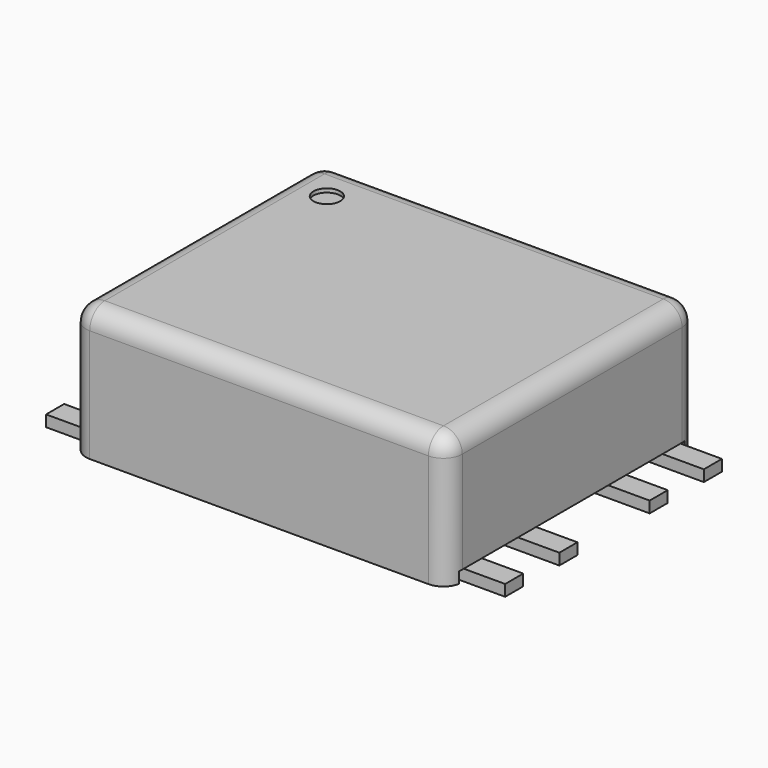
from build123d import *

# Parameters (mm, degrees)
SKETCH_W        = 10
SKETCH_H        = 8.3
PAD_DEPTH       = 3.5
FILLET_R        = 0.5
SKETCH002_W     = 12.582096
SKETCH002_H     = 7.5
POCKET_DEPTH    = 0.3
SKETCH003_R     = 0.356211
POCKET001_DEPTH = 0.1
SKETCH001_W     = 1.5
SKETCH001_H     = 0.6
PAD001_DEPTH    = 0.3


with BuildPart() as body:
    # Sketch → Pad (new body)
    with BuildSketch(Plane.XY):
        Rectangle(SKETCH_W, SKETCH_H)
    extrude(amount=PAD_DEPTH)

    # Fillet
    fillet_edges = [body.edges().sort_by_distance(p)[0] for p in [
        (0, -4.15, 3.5),
        (-5, 0, 3.5),
        (-5, -4.15, 1.75),
        (5, -4.15, 1.75),
        (5, 0, 3.5),
        (5, 4.15, 1.75),
        (0, 4.15, 3.5),
        (-5, 4.15, 1.75),
    ]]
    fillet(fillet_edges, radius=FILLET_R)

    # Sketch002 (on Face2 of Fillet) → Pocket (cut)
    with BuildSketch(Plane(origin=(0, 0, 0), x_dir=(1, 0, 0), z_dir=(0, 0, -1))):
        Rectangle(SKETCH002_W, SKETCH002_H)
    extrude(amount=-POCKET_DEPTH, mode=Mode.SUBTRACT)

    # Sketch003 → Pocket001 (cut)
    with BuildSketch(Plane.XY.offset(3.5)):
        with Locations((-3.834304, 2.895721)):
            Circle(SKETCH003_R)
    extrude(amount=-POCKET001_DEPTH, mode=Mode.SUBTRACT)


with BuildPart() as body001:
    # Sketch001 → Pad001 (new body)
    with BuildSketch(Plane.XY):
        with Locations((-5.35, 3.3)):
            Rectangle(SKETCH001_W, SKETCH001_H)
        with Locations((-5.35, 1.5)):
            Rectangle(SKETCH001_W, SKETCH001_H)
        with Locations((-5.35, -1.5)):
            Rectangle(SKETCH001_W, SKETCH001_H)
        with Locations((5.35, 3.3)):
            Rectangle(SKETCH001_W, SKETCH001_H)
        with Locations((5.35, 1.5)):
            Rectangle(SKETCH001_W, SKETCH001_H)
        with Locations((5.35, -1.5)):
            Rectangle(SKETCH001_W, SKETCH001_H)
        with Locations((5.35, -3.3)):
            Rectangle(SKETCH001_W, SKETCH001_H)
        with Locations((-5.35, -3.3)):
            Rectangle(SKETCH001_W, SKETCH001_H)
    extrude(amount=PAD001_DEPTH)


solid = Compound([body.part, body001.part])
